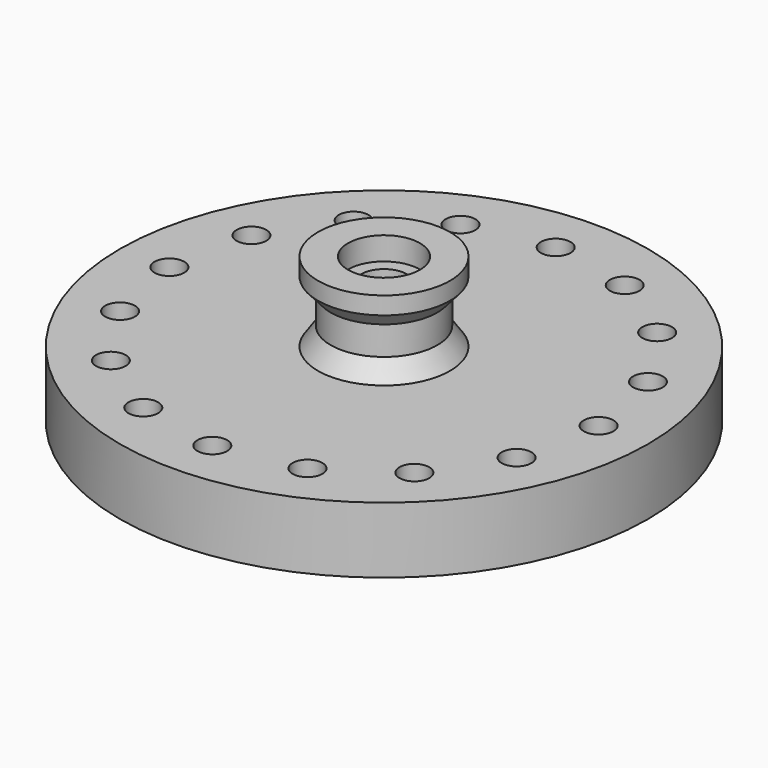
from build123d import *

# Parameters (mm, degrees)
F0_W     = 11
F0_H     = 7
F2_R     = 11
F3_DEPTH = 7
F4_R     = 7
F5_DEPTH = 80
F6_R     = 4.5
F7_DEPTH = 41.7


with BuildPart() as f1:
    # F0 (on Front) → F1 (revolve)
    with BuildSketch(Plane.XZ):
        Polygon((-20, 20), (-80, 20), (-80, 0), (-11, 0), (-11, 7), (0, 7), (0, 20), (0, 37), (-10.908018, 37), (-10.908018, 44), (-20, 44.023235), (-20, 38.700003), (-16.150784, 34.302171), (-16.150784, 25.613375), align=None)
        with Locations((-5.5, 3.5)):
            Rectangle(F0_W, F0_H)
    revolve(axis=Axis((0, 0, 77.767195), (0, 0, -1)))

    # F2 (on face) → F3 (cut)
    with BuildSketch(Plane(origin=(0, 0, 0), x_dir=(1, 0, 0), z_dir=(0, 0, -1))):
        Circle(F2_R)
    extrude(amount=-F3_DEPTH, mode=Mode.SUBTRACT)

    # F4 (on face) → F5 (cut)
    with BuildSketch(Plane(origin=(0, 0, 7), x_dir=(1, 0, 0), z_dir=(0, 0, -1))):
        Circle(F4_R)
    extrude(amount=-F5_DEPTH, mode=Mode.SUBTRACT)

    # F6 (on face) → F7 (cut)
    with BuildSketch(Plane.XY.offset(20)):
        with Locations((-45.961941, 45.961941)):
            Circle(F6_R)
        with Locations((-24.874423, 60.05217)):
            Circle(F6_R)
        with Locations((0, 65)):
            Circle(F6_R)
        with Locations((24.874423, 60.05217)):
            Circle(F6_R)
        with Locations((45.961941, 45.961941)):
            Circle(F6_R)
        with Locations((60.05217, 24.874423)):
            Circle(F6_R)
        with Locations((65, 0)):
            Circle(F6_R)
        with Locations((60.05217, -24.874423)):
            Circle(F6_R)
        with Locations((45.961941, -45.961941)):
            Circle(F6_R)
        with Locations((24.874423, -60.05217)):
            Circle(F6_R)
        with Locations((0, -65)):
            Circle(F6_R)
        with Locations((-24.874423, -60.05217)):
            Circle(F6_R)
        with Locations((-45.961941, -45.961941)):
            Circle(F6_R)
        with Locations((-60.05217, -24.874423)):
            Circle(F6_R)
        with Locations((-65, 0)):
            Circle(F6_R)
        with Locations((-60.05217, 24.874423)):
            Circle(F6_R)
    extrude(amount=-F7_DEPTH, mode=Mode.SUBTRACT)


solid = f1.part
